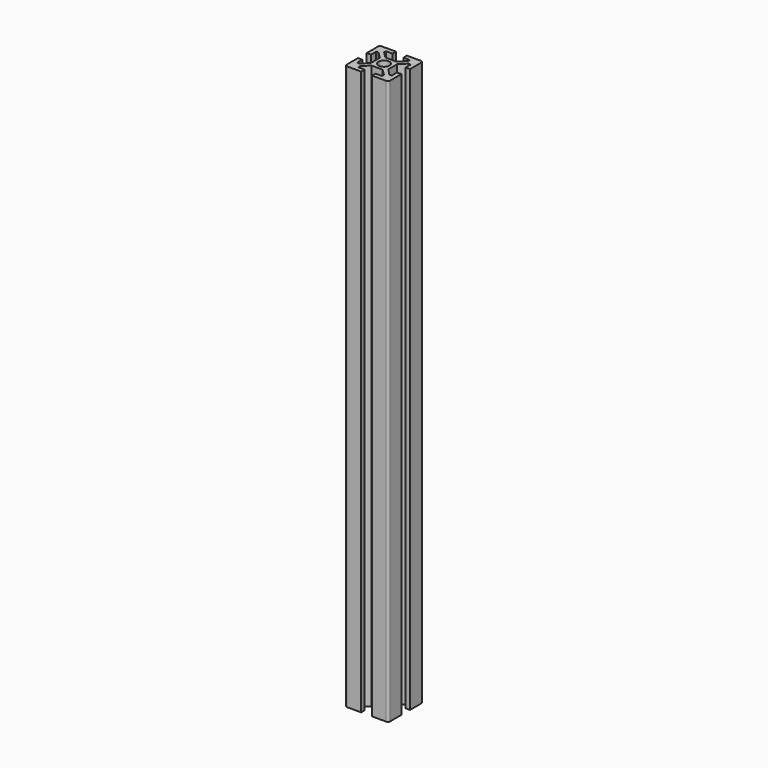
from build123d import *

# Parameters (mm, degrees)
SKETCH005_R  = 2.5
PAD003_DEPTH = 260


with BuildPart() as part:
    # Sketch005 → Pad003 (new body)
    with BuildSketch(Plane.XY):
        with BuildLine():
            Line((-4, -2.585786), (-4, 2.585787))
            Line((-4, 2.585787), (-6.914214, 5.500001))
            Line((-6.914214, 5.500001), (-8, 5.500001))
            Line((-8, 5.500001), (-8, 2.500001))
            Line((-8, 2.500001), (-10, 2.500001))
            Line((-10, 2.500001), (-10, 9.000001))
            ThreePointArc((-9, 10), (-9.707107, 9.707107), (-10, 9.000001))
            Line((-2.5, 10), (-9, 10))
            Line((-2.5, 8), (-2.5, 10))
            Line((-5.5, 8), (-2.5, 8))
            Line((-5.5, 6.914214), (-5.5, 8))
            Line((-2.585786, 4), (-5.5, 6.914214))
            Line((2.585786, 4), (-2.585786, 4))
            Line((2.585786, 4), (5.5, 6.914214))
            Line((5.5, 6.914214), (5.5, 8))
            Line((5.5, 8), (2.5, 8))
            Line((2.5, 8), (2.5, 10))
            Line((2.5, 10), (9, 10))
            ThreePointArc((10, 9.000001), (9.707107, 9.707107), (9, 10))
            Line((10, 2.500001), (10, 9.000001))
            Line((8, 2.500001), (10, 2.500001))
            Line((8, 5.500001), (8, 2.500001))
            Line((6.914214, 5.500001), (8, 5.500001))
            Line((4, 2.585787), (6.914214, 5.500001))
            Line((4, 2.585787), (4, -2.585786))
            Line((4, -2.585786), (6.914214, -5.500001))
            Line((6.914214, -5.500001), (8, -5.500001))
            Line((8, -5.500001), (8, -2.500001))
            Line((8, -2.500001), (10, -2.500001))
            Line((10, -2.500001), (10, -9.000001))
            ThreePointArc((9, -10), (9.707107, -9.707107), (10, -9.000001))
            Line((9, -10), (2.5, -10))
            Line((2.5, -10), (2.5, -8))
            Line((2.5, -8), (5.5, -8))
            Line((5.5, -8), (5.5, -6.914214))
            Line((5.5, -6.914214), (2.585786, -4))
            Line((2.585786, -4), (-2.585786, -4))
            Line((-2.585786, -4), (-5.5, -6.914214))
            Line((-5.5, -6.914214), (-5.5, -8))
            Line((-5.5, -8), (-2.5, -8))
            Line((-2.5, -8), (-2.5, -10))
            Line((-2.5, -10), (-9, -10))
            ThreePointArc((-10, -9.000001), (-9.707107, -9.707107), (-9, -10))
            Line((-10, -2.500001), (-10, -9.000001))
            Line((-8, -2.500001), (-10, -2.500001))
            Line((-8, -5.500001), (-8, -2.500001))
            Line((-6.914214, -5.500001), (-8, -5.500001))
            Line((-4, -2.585786), (-6.914214, -5.500001))
        make_face()
        Circle(SKETCH005_R, mode=Mode.SUBTRACT)
    extrude(amount=PAD003_DEPTH)


solid = part.part
